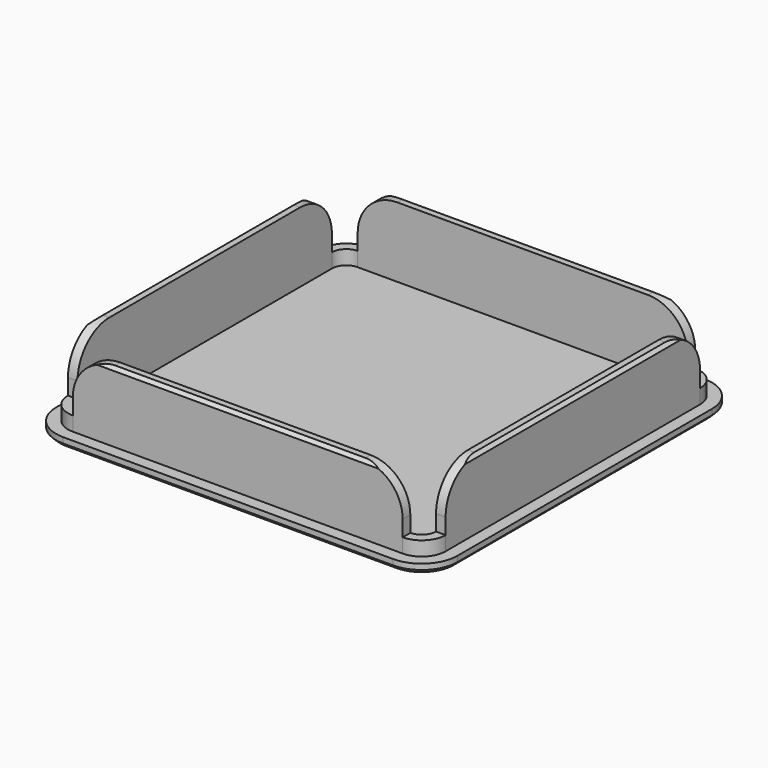
from build123d import *

# Parameters (mm, degrees)
F1_DEPTH = 1.2
F2_W     = 1.2
F2_H     = 40
F2_W_2   = 41.5
F2_H_2   = 1.2
F3_DEPTH = 10
F4_SIZE  = 0.4
F5_R     = 5
F6_DEPTH = 3
F7_SIZE  = 0.5


with BuildPart() as f1:
    # F0 (on Top) → F1 (new body)
    with BuildSketch(Plane.XY):
        with BuildLine():
            Line((44.5, 47.5), (3, 47.5))
            ThreePointArc((3, 47.5), (-0.181981, 46.181981), (-1.5, 43))
            Line((-1.5, 43), (-1.5, 3))
            ThreePointArc((-1.5, 3), (-0.181981, -0.181981), (3, -1.5))
            Line((3, -1.5), (44.5, -1.5))
            ThreePointArc((44.5, -1.5), (47.681981, -0.181981), (49, 3))
            Line((49, 3), (49, 43))
            ThreePointArc((49, 43), (47.681981, 46.181981), (44.5, 47.5))
        make_face()
        with BuildLine():
            Line((44.5, 0), (3, 0))
            ThreePointArc((3, 0), (0.87868, 0.87868), (0, 3))
            Line((0, 3), (0, 43))
            ThreePointArc((0, 43), (0.87868, 45.12132), (3, 46))
            Line((3, 46), (44.5, 46))
            ThreePointArc((44.5, 46), (46.62132, 45.12132), (47.5, 43))
            Line((47.5, 43), (47.5, 3))
            ThreePointArc((47.5, 3), (46.62132, 0.87868), (44.5, 0))
        make_face(mode=Mode.SUBTRACT)
        with BuildLine():
            ThreePointArc((0, 3), (0.87868, 0.87868), (3, 0))
            Line((3, 0), (44.5, 0))
            ThreePointArc((44.5, 0), (46.62132, 0.87868), (47.5, 3))
            Line((47.5, 3), (47.5, 43))
            ThreePointArc((47.5, 43), (46.62132, 45.12132), (44.5, 46))
            Line((44.5, 46), (3, 46))
            ThreePointArc((3, 46), (0.87868, 45.12132), (0, 43))
            Line((0, 43), (0, 3))
        make_face()
    extrude(amount=F1_DEPTH)

    # F2 (on face) → F3 (join)
    with BuildSketch(Plane.XY):
        with Locations((0.6, 23)):
            Rectangle(F2_W, F2_H)
        with Locations((46.9, 23)):
            Rectangle(F2_W, F2_H)
        with Locations((23.75, 0.6)):
            Rectangle(F2_W_2, F2_H_2)
        with Locations((23.75, 45.4)):
            Rectangle(F2_W_2, F2_H_2)
    extrude(amount=F3_DEPTH)

    # F4
    f4_edges = [f1.edges().sort_by_distance(p)[0] for p in [
        (47.5, 23, 10),
        (23.75, 46, 10),
        (0, 23, 10),
        (23.75, 0, 10),
    ]]
    chamfer(f4_edges, length=F4_SIZE)

    # F5
    f5_edges = [f1.edges().sort_by_distance(p)[0] for p in [
        (46.7, 43, 10),
        (44.5, 45.2, 10),
        (3, 45.2, 10),
        (0.8, 43, 10),
        (3, 0.8, 10),
        (0.8, 3, 10),
        (46.7, 3, 10),
        (44.5, 0.8, 10),
    ]]
    fillet(f5_edges, radius=F5_R)

    # F2 (on face) → F6 (join)
    with BuildSketch(Plane.XY):
        with BuildLine():
            Line((0, 43), (1.2, 43))
            ThreePointArc((1.2, 43), (1.727208, 44.272792), (3, 44.8))
            Line((3, 44.8), (3, 46))
            ThreePointArc((3, 46), (0.87868, 45.12132), (0, 43))
        make_face()
        with BuildLine():
            ThreePointArc((3, 1.2), (1.727208, 1.727208), (1.2, 3))
            Line((1.2, 3), (0, 3))
            ThreePointArc((0, 3), (0.87868, 0.87868), (3, 0))
            Line((3, 0), (3, 1.2))
        make_face()
        with BuildLine():
            ThreePointArc((46.3, 3), (45.772792, 1.727208), (44.5, 1.2))
            Line((44.5, 1.2), (44.5, 0))
            ThreePointArc((44.5, 0), (46.62132, 0.87868), (47.5, 3))
            Line((47.5, 3), (46.3, 3))
        make_face()
        with BuildLine():
            Line((44.5, 46), (44.5, 44.8))
            ThreePointArc((44.5, 44.8), (45.772792, 44.272792), (46.3, 43))
            Line((46.3, 43), (47.5, 43))
            ThreePointArc((47.5, 43), (46.62132, 45.12132), (44.5, 46))
        make_face()
    extrude(amount=F6_DEPTH)

    # F7
    f7_edges = [f1.edges().sort_by_distance(p)[0] for p in [
        (49, 23, 0),
        (47.681981, 46.181981, 0),
        (23.75, 47.5, 0),
        (-0.181981, 46.181981, 0),
        (-1.5, 23, 0),
        (-0.181981, -0.181981, 0),
        (23.75, -1.5, 0),
        (47.681981, -0.181981, 0),
    ]]
    chamfer(f7_edges, length=F7_SIZE)


solid = f1.part
